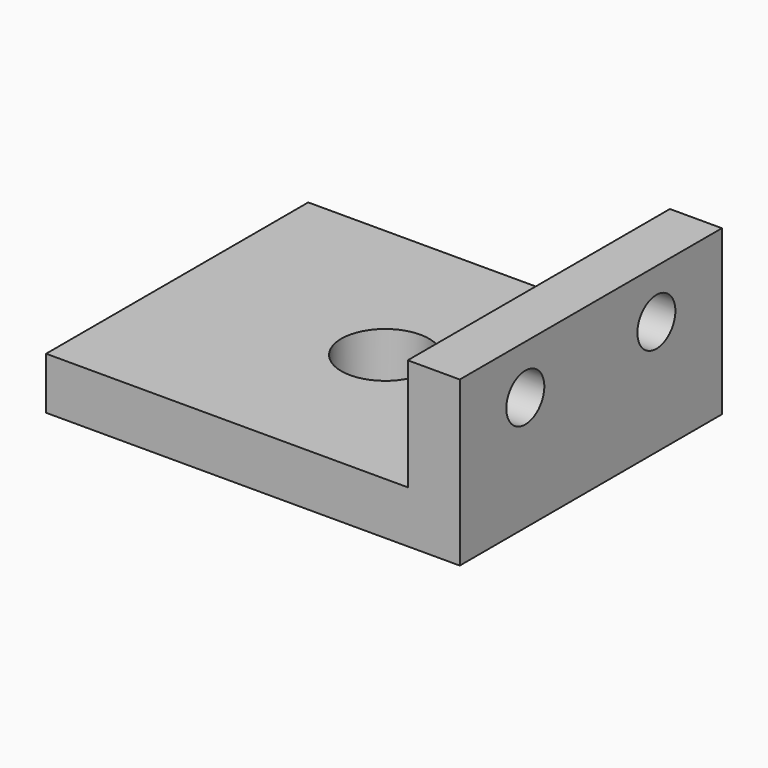
from build123d import *

# Parameters (mm, degrees)
F0_W     = 40
F0_H     = 20
F1_DEPTH = 6.35
F2_W     = 40
F2_H     = 6.35
F3_DEPTH = 44.15
F5_D     = 10.7188
F5_DEPTH = 12.7
F5_TIP   = 3.2202524016
F6_D     = 5.8
F6_DEPTH = 12.7
F6_TIP   = 1.7424957952


with BuildPart() as f1:
    # F0 (on Right) → F1 (new body)
    with BuildSketch(Plane.YZ):
        with Locations((20, 10)):
            Rectangle(F0_W, F0_H)
        with Locations((20, 10)):
            Rectangle(F0_W, F0_H)
    extrude(amount=F1_DEPTH)

    # F2 (on face) → F3 (join)
    with BuildSketch(Plane(origin=(0, 0, 0), x_dir=(0, -1, 0), z_dir=(-1, 0, 0))):
        with Locations((-20, 3.175)):
            Rectangle(F2_W, F2_H)
    extrude(amount=F3_DEPTH)

    # F5
    with Locations(Plane.XY.offset(6.35)):
        with Locations((-18.75, 20)):
            Hole(F5_D / 2, depth=F5_DEPTH)
            with Locations((0, 0, -(F5_DEPTH + F5_TIP / 2))):  # 118° drill point
                Cone(0, F5_D / 2, F5_TIP, mode=Mode.SUBTRACT)

    # F6
    with Locations(Plane(origin=(0, 0, 0), x_dir=(0, 1, 0), z_dir=(-1, 0, 0))):
        with Locations((30, -14), (10, -14)):
            Hole(F6_D / 2, depth=F6_DEPTH)
            with Locations((0, 0, -(F6_DEPTH + F6_TIP / 2))):  # 118° drill point
                Cone(0, F6_D / 2, F6_TIP, mode=Mode.SUBTRACT)


solid = f1.part
